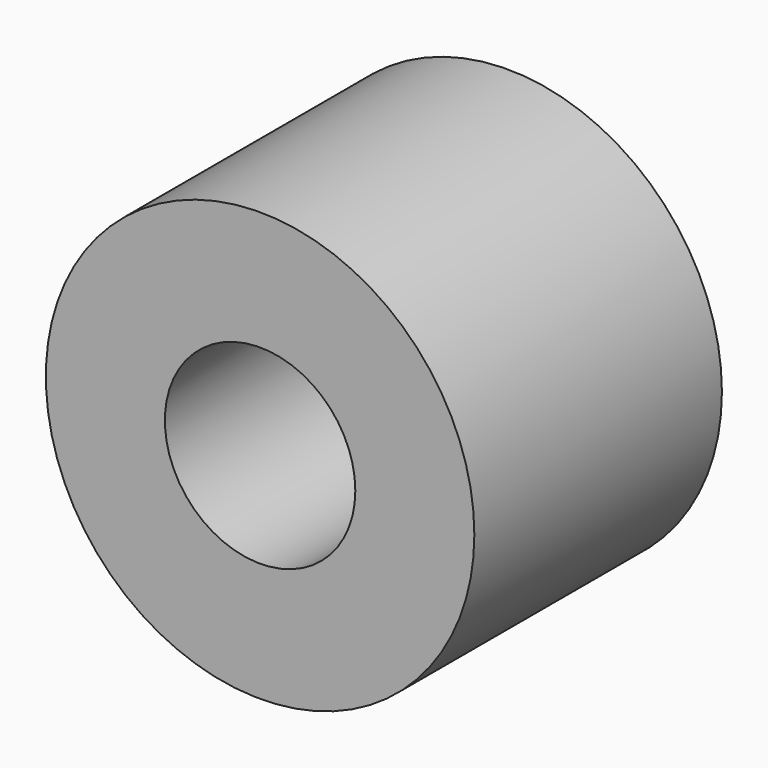
from build123d import *

# Parameters (mm, degrees)
CYLINDER367_R          = 0.4
CYLINDER367_DEPTH      = 1.3
CYLINDER377_R          = 0.9
CYLINDER377_DEPTH      = 1.3
CUT193_PLACEMENT_ANGLE = 90


with BuildPart() as cylinder367:
    # Cylinder367 → Cylinder367 (new body)
    with BuildSketch(Plane.XY):
        Circle(CYLINDER367_R)
    extrude(amount=CYLINDER367_DEPTH)


with BuildPart() as contact011:
    # Cylinder377 → Cylinder377 (new body)
    with BuildSketch(Plane.XY):
        Circle(CYLINDER377_R)
    extrude(amount=CYLINDER377_DEPTH)

    # Cut193: cut Cylinder367
    add(cylinder367.part, mode=Mode.SUBTRACT)


with BuildPart() as contact011_1:
    # Cut193 placement: moved
    add(contact011.part.moved(Location((-7, 1.3, -17))).rotate(Axis((-7, 1.3, -17), (1, 0, 0)), CUT193_PLACEMENT_ANGLE))


solid = contact011_1.part
